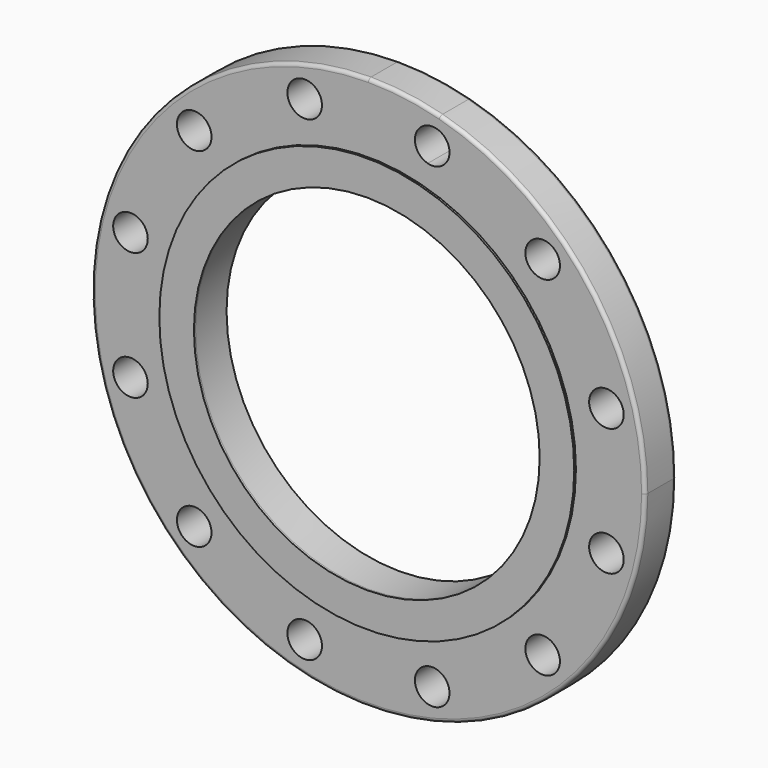
from build123d import *

# Parameters (mm, degrees)
F0_R     = 12.7
F1_DEPTH = 28.448
F2_R     = 2.54
F3_R     = 152.4
F3_R_2   = 127
F4_DEPTH = 1.524


with BuildPart() as f1:
    # F0 (on Front) → F1 (new body)
    with BuildSketch(Plane.XZ):
        with BuildLine():
            ThreePointArc((0, 203.2), (-143.684098, -143.684098), (203.2, 0))
            ThreePointArc((203.2, 0), (161.209399, 123.700322), (52.59203, 196.276128))
            Line((52.59203, 196.276128), (50.126779, 187.075684))
            ThreePointArc((50.126779, 187.075684), (56.915364, 182.539697), (59.539777, 174.808426))
            ThreePointArc((59.539777, 174.808426), (54.571047, 164.732839), (43.552775, 162.541168))
            Line((43.552775, 162.541168), (32.870019, 122.67258))
            ThreePointArc((32.870019, 122.67258), (100.755874, 77.312701), (127, 0))
            ThreePointArc((127, 0), (-89.802561, -89.802561), (0, 127))
            Line((0, 127), (0, 203.2))
        make_face()
        with Locations((-127.96865, -127.96865)):
            Circle(F0_R, mode=Mode.SUBTRACT)
        with Locations((-46.839777, -174.808426)):
            Circle(F0_R, mode=Mode.SUBTRACT)
        with Locations((-174.808426, -46.839777)):
            Circle(F0_R, mode=Mode.SUBTRACT)
        with Locations((46.839777, -174.808426)):
            Circle(F0_R, mode=Mode.SUBTRACT)
        with Locations((127.96865, -127.96865)):
            Circle(F0_R, mode=Mode.SUBTRACT)
        with Locations((174.808426, -46.839777)):
            Circle(F0_R, mode=Mode.SUBTRACT)
        with Locations((-174.808426, 46.839777)):
            Circle(F0_R, mode=Mode.SUBTRACT)
        with Locations((-127.96865, 127.96865)):
            Circle(F0_R, mode=Mode.SUBTRACT)
        with Locations((-46.839777, 174.808426)):
            Circle(F0_R, mode=Mode.SUBTRACT)
        with Locations((174.808426, 46.839777)):
            Circle(F0_R, mode=Mode.SUBTRACT)
        with Locations((127.96865, 127.96865)):
            Circle(F0_R, mode=Mode.SUBTRACT)
        with BuildLine():
            Line((50.126779, 187.075684), (52.59203, 196.276128))
            ThreePointArc((52.59203, 196.276128), (26.522922, 201.461596), (0, 203.2))
            Line((0, 203.2), (0, 127))
            ThreePointArc((0, 127), (16.576826, 125.913497), (32.870019, 122.67258))
            Line((32.870019, 122.67258), (43.552775, 162.541168))
            ThreePointArc((43.552775, 162.541168), (34.572519, 178.095428), (50.126779, 187.075684))
        make_face()
    extrude(amount=F1_DEPTH)

    # F2
    f2_edges = [f1.edges().sort_by_distance(p)[0] for p in [
        (-203.2, -28.448, 0),
        (-203.2, 0, 0),
    ]]
    fillet(f2_edges, radius=F2_R)

    # F3 (on face) → F4 (join)
    with BuildSketch(Plane.XZ.offset(28.448)):
        Circle(F3_R)
        Circle(F3_R_2, mode=Mode.SUBTRACT)
    extrude(amount=F4_DEPTH)


solid = f1.part
